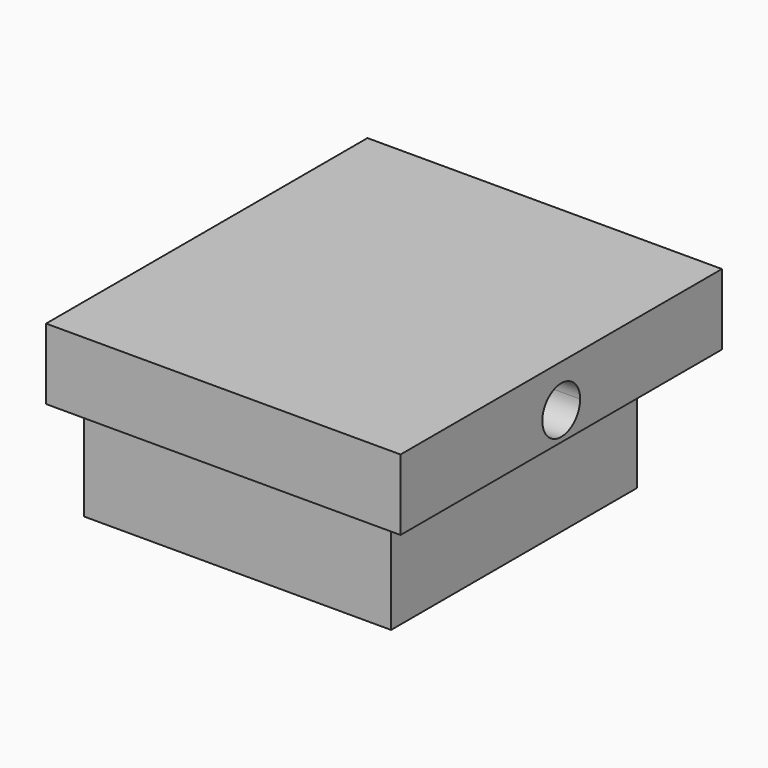
from build123d import *

# Parameters (mm, degrees)
F0_W     = 13
F0_H     = 13
F1_DEPTH = 8
F3_DEPTH = 3
F5_DEPTH = 10


with BuildPart() as f1:
    # F0 (on Top) → F1 (new body)
    with BuildSketch(Plane.XY):
        with Locations((6.5, 6.5)):
            Rectangle(F0_W, F0_H)
    extrude(amount=F1_DEPTH)

    # F2 (on face) → F3 (join)
    with BuildSketch(Plane.XY.offset(8)):
        Polygon((13, 0), (0, 0), (0, -2), (15, -2), (15, 15), (0, 15), (0, 13), (13, 13), align=None)
    extrude(amount=-F3_DEPTH)

    # F4 (on face) → F5 (cut)
    with BuildSketch(Plane.YZ.offset(15)):
        with BuildLine():
            ThreePointArc((7.5, 6.2), (7.207107, 6.907107), (6.5, 7.2))
            ThreePointArc((6.5, 7.2), (5.792893, 5.492893), (7.5, 6.2))
        make_face()
    extrude(amount=-F5_DEPTH, mode=Mode.SUBTRACT)


solid = f1.part
